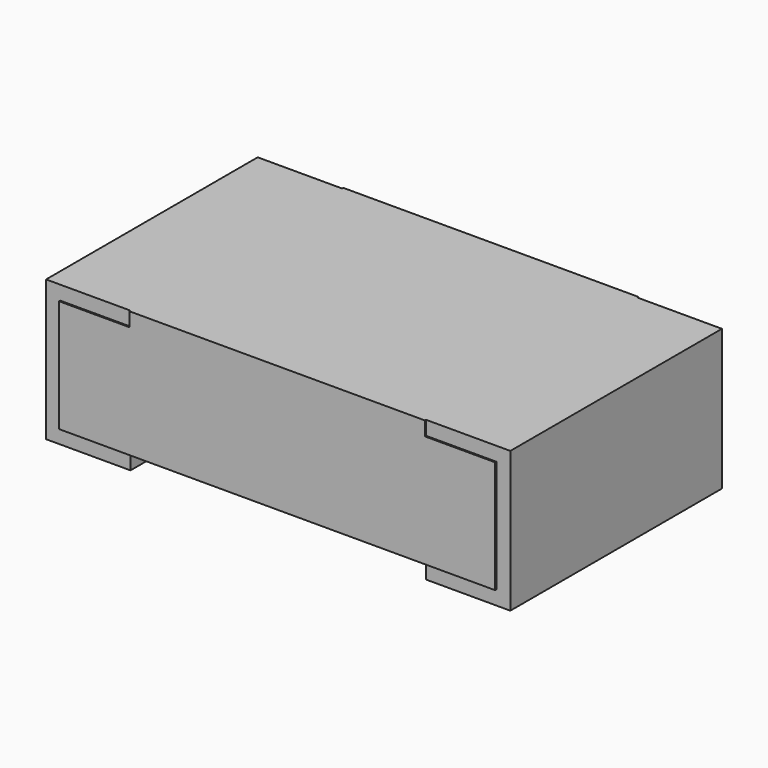
from build123d import *

# Parameters (mm, degrees)
PLATING_LEFT_W      = 0.3
PLATING_LEFT_H      = 0.94
PLATING_LEFT_DEPTH  = 0.5
PLATING_RIGHT_W     = 0.3
PLATING_RIGHT_H     = 0.94
PLATING_RIGHT_DEPTH = 0.5
MARKING_W           = 1.05
MARKING_H           = 0.95
MARKING_DEPTH       = 0.05
CHIP_W              = 1.55
CHIP_H              = 0.95
CHIP_DEPTH          = 0.4


with BuildPart() as plating_left:
    # plating_left → plating_left (new body)
    with BuildSketch(Plane(origin=(-0.825, -0.47, 0), x_dir=(1, 0, 0), z_dir=(0, 0, 1))):
        with Locations((0.15, 0.47)):
            Rectangle(PLATING_LEFT_W, PLATING_LEFT_H)
    extrude(amount=PLATING_LEFT_DEPTH)


with BuildPart() as plating_right:
    # plating_right → plating_right (new body)
    with BuildSketch(Plane(origin=(0.525, -0.47, 0), x_dir=(1, 0, 0), z_dir=(0, 0, 1))):
        with Locations((0.15, 0.47)):
            Rectangle(PLATING_RIGHT_W, PLATING_RIGHT_H)
    extrude(amount=PLATING_RIGHT_DEPTH)


with BuildPart() as marking:
    # marking → marking (new body)
    with BuildSketch(Plane(origin=(-0.525, -0.475, 0.45), x_dir=(1, 0, 0), z_dir=(0, 0, 1))):
        with Locations((0.525, 0.475)):
            Rectangle(MARKING_W, MARKING_H)
    extrude(amount=MARKING_DEPTH)


with BuildPart() as resistor:
    # chip → chip (new body)
    with BuildSketch(Plane(origin=(-0.775, -0.475, 0.05), x_dir=(1, 0, 0), z_dir=(0, 0, 1))):
        with Locations((0.775, 0.475)):
            Rectangle(CHIP_W, CHIP_H)
    extrude(amount=CHIP_DEPTH)

    # resistor: union plating_left, plating_right, marking
    add(plating_left.part)
    add(plating_right.part)
    add(marking.part)


solid = resistor.part
